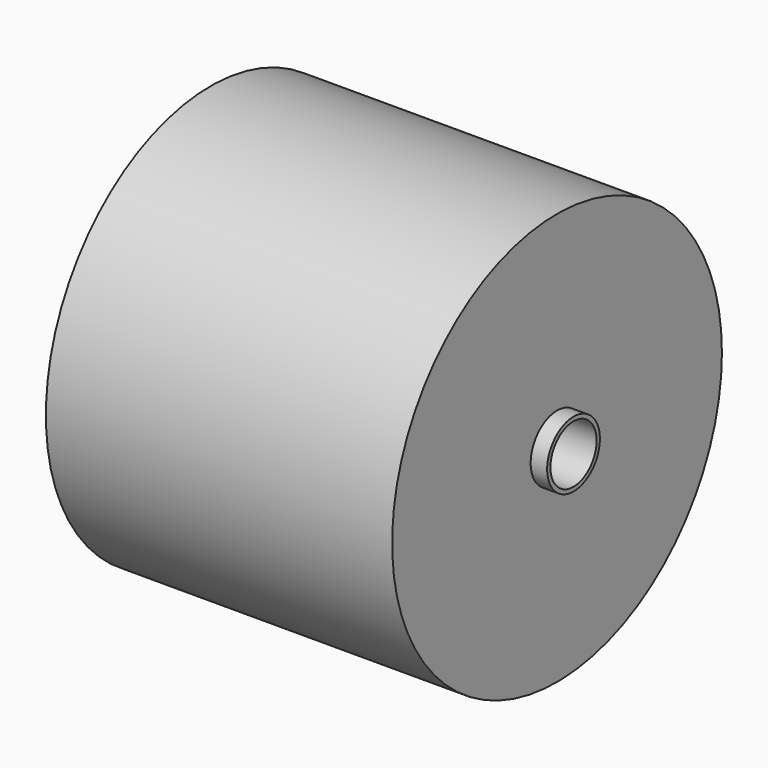
from build123d import *

# Parameters (mm, degrees)
F0_R     = 40
F0_R_2   = 35
F1_DEPTH = 230
F2_R     = 250
F2_R_2   = 40
F3_DEPTH = 210


with BuildPart() as f1:
    # F0 (on Right) → F1 (new body, symmetric)
    with BuildSketch(Plane.YZ):
        Circle(F0_R)
        Circle(F0_R_2, mode=Mode.SUBTRACT)
    extrude(amount=F1_DEPTH, both=True)


with BuildPart() as f3:
    # F2 (on Right) → F3 (new body, symmetric)
    with BuildSketch(Plane.YZ):
        Circle(F2_R)
        Circle(F2_R_2, mode=Mode.SUBTRACT)
    extrude(amount=F3_DEPTH, both=True)


solid = Compound([f1.part, f3.part])
